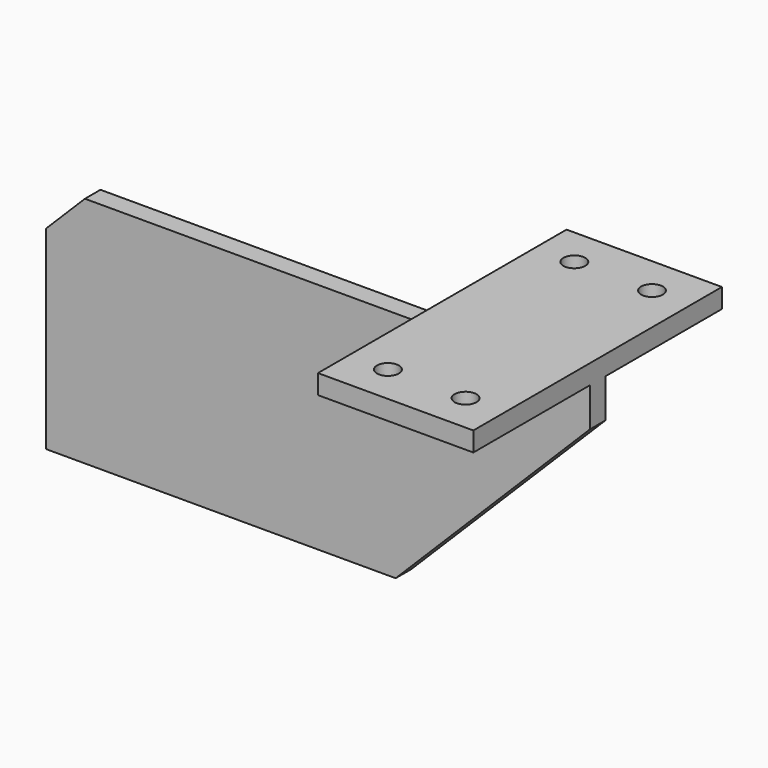
from build123d import *

# Parameters (mm, degrees)
F1_DEPTH = 6.35
F0_W     = 101.6
F0_H     = 12.7
F2_DEPTH = 101.6
F4_D     = 14.2875


with BuildPart() as f1:
    # F0 (on Front) → F1 (new body, symmetric)
    with BuildSketch(Plane.XZ):
        Polygon((101.6, 0), (0, 0), (-228.6, 0), (-254, -25.4), (-254, -152.4), (-25.4, -152.4), (101.6, -25.4), align=None)
    extrude(amount=F1_DEPTH, both=True)

    # F0 (on Front) → F2 (join, symmetric)
    with BuildSketch(Plane.XZ):
        with Locations((50.8, 6.35)):
            Rectangle(F0_W, F0_H)
    extrude(amount=F2_DEPTH, both=True)

    # F4 (through all)
    with Locations(Plane.XY.offset(12.7)):
        with Locations((25.4, 76.2), (76.2, 76.2), (76.2, -76.2), (25.4, -76.2)):
            Hole(F4_D / 2)


solid = f1.part
